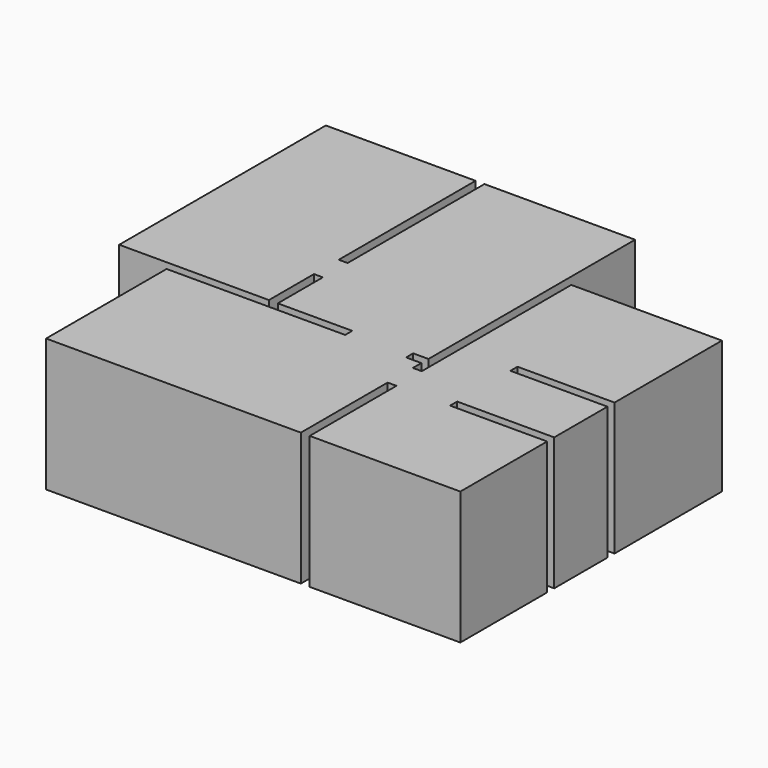
from build123d import *

# Parameters (mm, degrees)
F1_DEPTH = 3000


with BuildPart() as f1:
    # F0 (on Top) → F1 (new body)
    with BuildSketch(Plane.XY):
        Polygon((0, 5830), (0, 0), (1230, 0), (3380, 0), (3380, 1270), (3580, 1270), (3580, 0), (5260, 0), (5260, -200), (1230, -200), (1230, -3600), (6980, -3600), (6980, -1151.930332), (7180, -1151.930332), (7180, -3600), (10580, -3600), (10580, -3075.965166), (10580, -2375.965166), (10580, -1151.930332), (8390, -1151.930332), (8390, -951.930332), (10580, -951.930332), (10580, 550), (8390, 550), (8390, 750), (10580, 750), (10580, 3780), (7180, 3780), (7180, 0), (7180, -200), (7181.238174, -438.141316), (6980, -438.141316), (6980, -200), (6635.316849, -200), (6635.316849, 0), (6980, 0), (6980, 5830), (3580, 5830), (3580, 1970), (3380, 1970), (3380, 5830), align=None)
    extrude(amount=F1_DEPTH)


solid = f1.part
